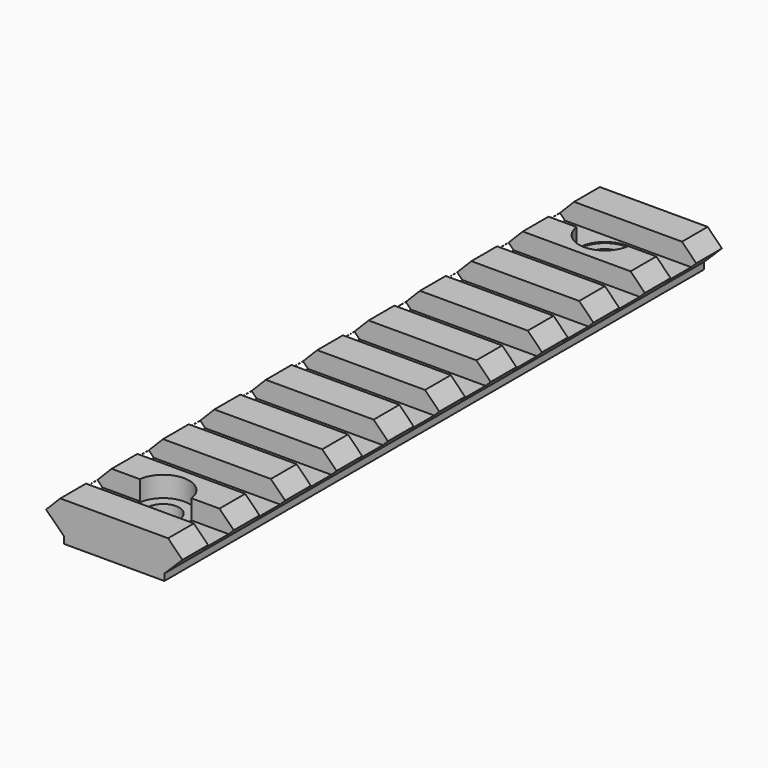
from build123d import *

# Parameters (mm, degrees)
F1_DEPTH       = 52.5
F2_W           = 21.210102
F2_H           = 4.993801
F3_DEPTH       = 5
F5_D           = 5
F5_DEPTH       = 6.1
F5_CBORE_D     = 8.1
F5_CBORE_DEPTH = 3.2
F6_D           = 5
F6_DEPTH       = 6.1
F6_CBORE_D     = 8.1
F6_CBORE_DEPTH = 3.2


with BuildPart() as f1:
    # F0 (on Front) → F1 (new body, symmetric)
    with BuildSketch(Plane.XZ):
        Polygon((-7.799124, -1.9758), (-7.799124, -3.012683), (7.814229, -3.012683), (7.814229, -1.9758), (10.609305, 0.789221), (8.38992, 3.032728), (-8.401712, 3.032728), (-10.609227, 0.789221), align=None)
    extrude(amount=F1_DEPTH, both=True)

    # F2 (on Top) → F3 (cut)
    with BuildSketch(Plane.XY):
        with Locations((0.005642, -4.996805)):
            Rectangle(F2_W, F2_H)
        with Locations((0.005642, -14.996806)):
            Rectangle(F2_W, F2_H)
        with Locations((0.005642, -24.996806)):
            Rectangle(F2_W, F2_H)
        with Locations((0.005642, -34.996805)):
            Rectangle(F2_W, F2_H)
        with Locations((0.005642, -44.996805)):
            Rectangle(F2_W, F2_H)
        with Locations((0.005642, 5.003195)):
            Rectangle(F2_W, F2_H)
        with Locations((0.005642, 15.003194)):
            Rectangle(F2_W, F2_H)
        with Locations((0.005642, 25.003194)):
            Rectangle(F2_W, F2_H)
        with Locations((0.005642, 35.003194)):
            Rectangle(F2_W, F2_H)
        with Locations((0.005642, 45.003194)):
            Rectangle(F2_W, F2_H)
    extrude(amount=F3_DEPTH, mode=Mode.SUBTRACT)

    # F5
    with Locations(Plane.XY.offset(3.032728)):
        with Locations((0, 42.994596)):
            CounterBoreHole(F5_D / 2, F5_CBORE_D / 2, F5_CBORE_DEPTH, depth=F5_DEPTH)

    # F6
    with Locations(Plane.XY.offset(3.032728)):
        with Locations((0, -42.977002)):
            CounterBoreHole(F6_D / 2, F6_CBORE_D / 2, F6_CBORE_DEPTH, depth=F6_DEPTH)


solid = f1.part
